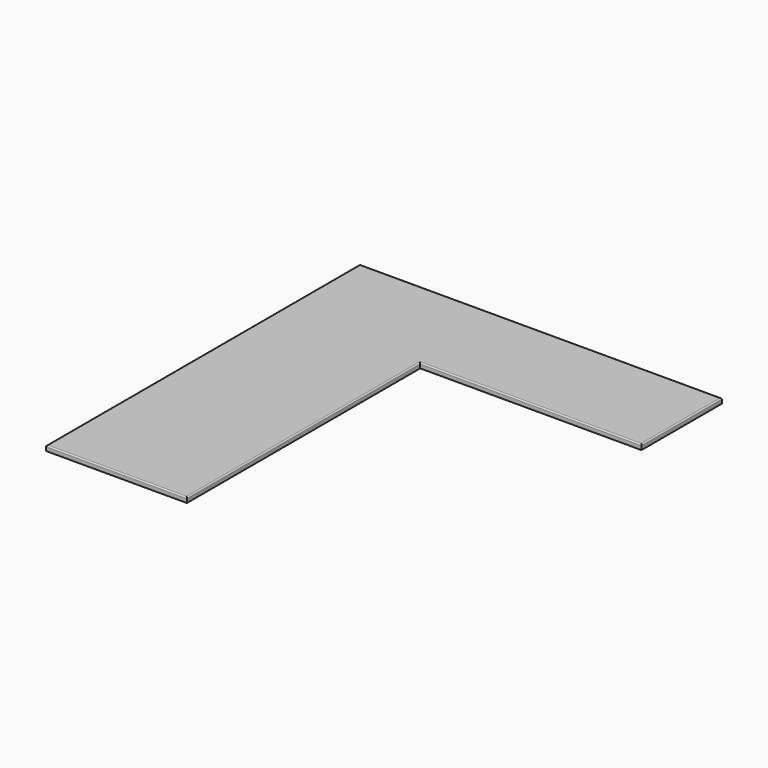
from build123d import *

# Parameters (mm, degrees)
F1_DEPTH = 25.4
F2_R     = 6.35


with BuildPart() as f1:
    # F0 (on Top) → F1 (new body)
    with BuildSketch(Plane.XY):
        Polygon((0, -1473.2), (0, 0), (1117.6, 0), (1117.6, 508), (-711.2, 508), (-711.2, -1473.2), align=None)
    extrude(amount=F1_DEPTH)

    # F2
    f2_edges = [f1.edges().sort_by_distance(p)[0] for p in [
        (0, -736.6, 25.4),
        (558.8, 0, 25.4),
        (1117.6, 254, 25.4),
        (203.2, 508, 25.4),
        (-711.2, -482.6, 25.4),
        (-355.6, -1473.2, 25.4),
    ]]
    fillet(f2_edges, radius=F2_R)


solid = f1.part
